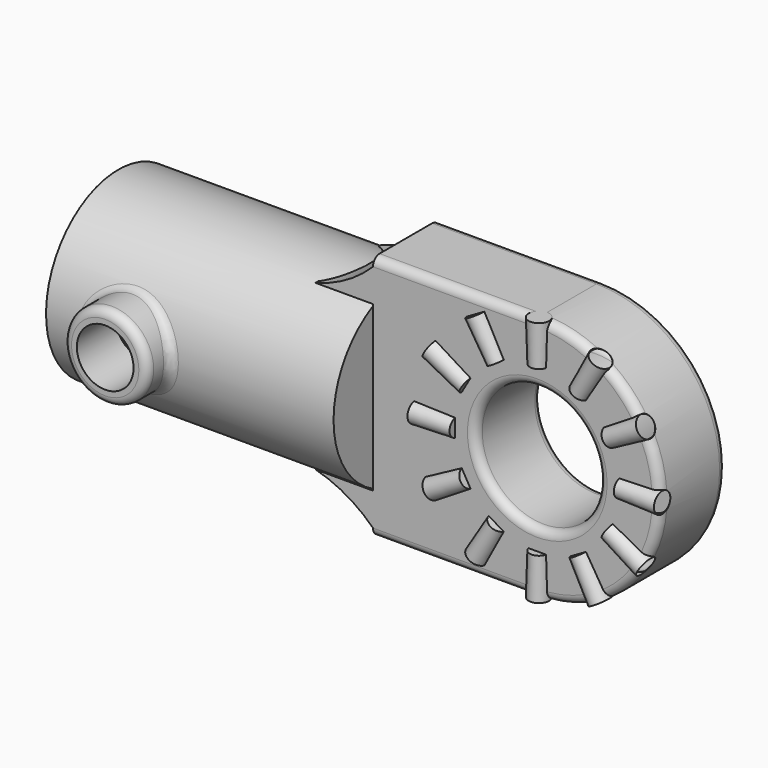
from build123d import *

# Parameters (mm, degrees)
SKETCH044_R           = 7.5
PAD024_DEPTH          = 5
FILLET012_R           = 1
POLARPATTERN005_COUNT = 12
SKETCH046_R           = 11
PAD025_DEPTH          = 35
SKETCH047_R           = 5.1
PAD026_DEPTH          = 14.5
SKETCH050_R           = 8.375
POCKET011_DEPTH       = 20
PAD027_DEPTH          = 5
SKETCH049_R           = 3.45
POCKET012_DEPTH       = 7
FILLET016_R           = 1


with BuildPart() as body008:
    # Sketch044 → Pad024 (new body, symmetric)
    with BuildSketch(Plane.XZ):
        with BuildLine():
            ThreePointArc((-5.2e-05, -15), (15, -2.6e-05), (0, 15))
            Line((0, 15), (-20, 15))
            Line((-20, 15), (-20, -15))
            Line((-20, -15), (-5.2e-05, -15))
        make_face()
        Circle(SKETCH044_R, mode=Mode.SUBTRACT)
    extrude(amount=PAD024_DEPTH, both=True)

    # Fillet012
    fillet012_edges = [body008.edges().sort_by_distance(p)[0] for p in [
        (15, -5, -2.6e-05),
        (-7.5, -5, 0),
        (15, 5, -2.6e-05),
        (-7.5, 5, 0),
    ]]
    fillet(fillet012_edges, radius=FILLET012_R)

    # Sketch045 (on Face7 of Pad024) → Revolution002 (revolve)
    with BuildSketch(Plane.XZ.offset(4.75)):
        Polygon((10, 0), (10, -1.1), (15, -1.25), (15, 0), align=None)
    revolution002 = revolve(axis=Axis((0, -4.75, 0), (1, 0, 0)))

    # PolarPattern005: Revolution002 ×12 about axis
    polarpattern005_axis = Axis((0, -4.75, 0), (0, -1, 0))
    for i in range(1, POLARPATTERN005_COUNT):
        add(revolution002.rotate(polarpattern005_axis, i * 360 / POLARPATTERN005_COUNT))


with BuildPart() as body009:
    # Sketch046 (on Face26 of PolarPattern005) → Pad025 (new body)
    with BuildSketch(Plane(origin=(-20, 0, 0), x_dir=(0, 0, -1), z_dir=(-1, 0, 0))):
        Circle(SKETCH046_R)
    extrude(amount=PAD025_DEPTH)

    # Sketch047 → Pad026 (join)
    with BuildSketch(Plane.XZ):
        with Locations((-45, 0)):
            Circle(SKETCH047_R)
    extrude(amount=PAD026_DEPTH)

    # Sketch050 (on Face70 of Pad025) → Pocket011 (cut)
    with BuildSketch(Plane(origin=(-55, 0, 0), x_dir=(0, 0, -1), z_dir=(-1, 0, 0))):
        Circle(SKETCH050_R)
    extrude(amount=-POCKET011_DEPTH, mode=Mode.SUBTRACT)

    # Boolean001: union Body008
    add(body008.part)

    # Sketch051 → Pad027 (join, symmetric)
    with BuildSketch(Plane.XZ):
        with BuildLine():
            Line((-20, 10), (-27, 10))
            ThreePointArc((-27, 10), (-23.236695, 11.539216), (-20, 14))
            Line((-20, 14), (-20, 10))
        make_face()
    pad027 = extrude(amount=PAD027_DEPTH, both=True)

    # Mirrored004: Pad027 across Sketch051 H_Axis
    add(pad027.mirror(Plane(origin=(0, 0, 0), x_dir=(0, -1, 0), z_dir=(0, 0, 1))))

    # Sketch049 (on Face72 of Pad026) → Pocket012 (cut)
    with BuildSketch(Plane.XZ.offset(14.5)):
        with Locations((-45, 0)):
            Circle(SKETCH049_R)
    extrude(amount=-POCKET012_DEPTH, mode=Mode.SUBTRACT)

    # Fillet016
    fillet016_edges = [body009.edges().sort_by_distance(p)[0] for p in [
        (-50.1, -11, 0),
        (-50.1, -14.5, 0),
    ]]
    fillet(fillet016_edges, radius=FILLET016_R)


solid = body009.part
